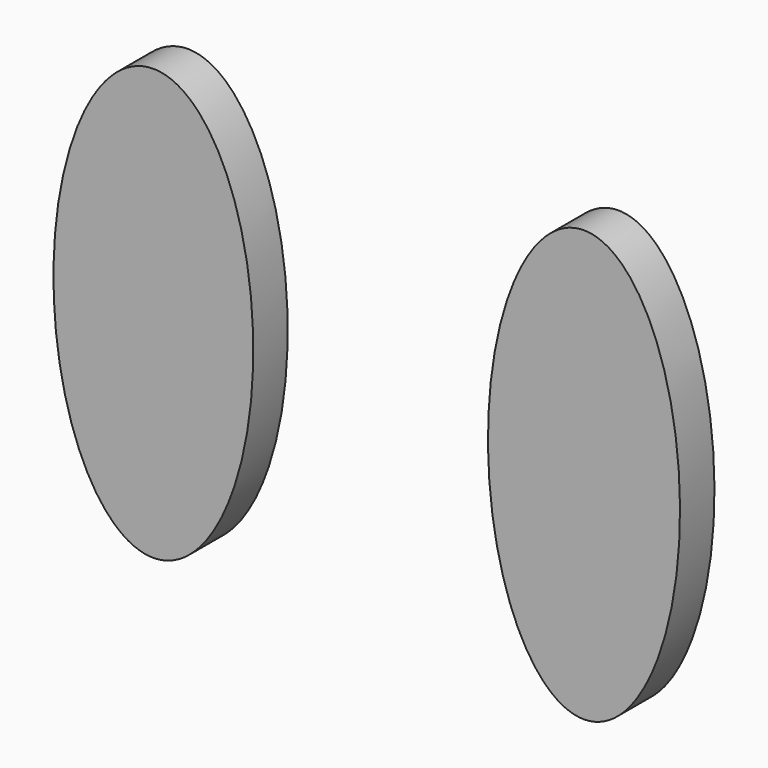
from build123d import *

# Parameters (mm, degrees)
F1_DEPTH = 5


with BuildPart() as f1:
    # F0 (on Front) → F1 (new body)
    with BuildSketch(Plane.XZ):
        with BuildLine():
            add(Edge.make_bspline(
                [(-36.878318, -48.625001), (-16.779154, -48.625001), (-26.828736, -11.125001), (-36.878318, 26.374999), (-46.9279, -11.125001), (-56.977482, -48.625001), (-36.878318, -48.625001)],
                knots=[0, 0, 0, 2.094395, 2.094395, 4.18879, 4.18879, 6.283185, 6.283185, 6.283185], degree=2, weights=[1, 0.5, 1, 0.5, 1, 0.5, 1]))
        make_face()
        with BuildLine():
            add(Edge.make_bspline(
                [(13.121682, -48.872525), (32.437403, -48.872525), (22.779543, -11.372525), (13.121682, 26.127475), (3.463822, -11.372525), (-6.194038, -48.872525), (13.121682, -48.872525)],
                knots=[0, 0, 0, 2.094395, 2.094395, 4.18879, 4.18879, 6.283185, 6.283185, 6.283185], degree=2, weights=[1, 0.5, 1, 0.5, 1, 0.5, 1]))
        make_face()
    extrude(amount=F1_DEPTH)


solid = f1.part
